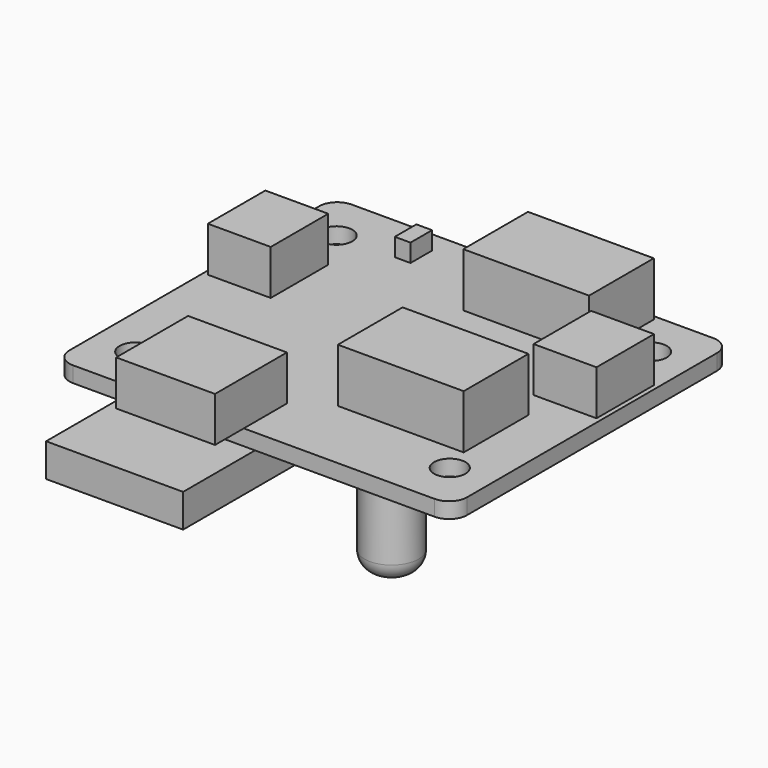
from build123d import *

# Parameters (mm, degrees)
F0_W      = 44.25
F0_H      = 38.75
F0_R      = 1.75
F1_DEPTH  = 1.75
F2_R      = 2
F3_W      = 14
F3_H      = 9
F4_DEPTH  = 6
F3_W_2    = 7
F3_H_2    = 8
F5_DEPTH  = 5
F3_W_3    = 1.75
F3_H_3    = 3
F6_DEPTH  = 2
F3_W_4    = 11
F3_H_4    = 6
F3_H_5    = 4
F7_DEPTH  = 5
F8_R      = 3
F9_DEPTH  = 9.4
F8_R_2    = 2.25
F10_DEPTH = 12
F8_W      = 15.25
F8_H      = 21
F8_H_2    = 10
F11_DEPTH = 3.7
F12_R     = 2
F13_R     = 2


with BuildPart() as f1:
    # F0 (on Top) → F1 (new body)
    with BuildSketch(Plane.XY):
        Rectangle(F0_W, F0_H)
        with Locations((-17.5, -14)):
            Circle(F0_R, mode=Mode.SUBTRACT)
        with Locations((17.5, -14)):
            Circle(F0_R, mode=Mode.SUBTRACT)
        with Locations((-17.5, 14)):
            Circle(F0_R, mode=Mode.SUBTRACT)
        with Locations((17.5, 14)):
            Circle(F0_R, mode=Mode.SUBTRACT)
    extrude(amount=F1_DEPTH)

    # F2
    f2_edges = [f1.edges().sort_by_distance(p)[0] for p in [
        (22.125, -19.375, 0.875),
        (-22.125, -19.375, 0.875),
        (-22.125, 19.375, 0.875),
        (22.125, 19.375, 0.875),
    ]]
    fillet(f2_edges, radius=F2_R)

    # F3 (on face) → F4 (join)
    with BuildSketch(Plane.XY.offset(1.75)):
        with Locations((6.9, 14.375)):
            Rectangle(F3_W, F3_H)
        with Locations((9.625, -6.47)):
            Rectangle(F3_W, F3_H)
    extrude(amount=F4_DEPTH)

    # F3 (on face) → F5 (join)
    with BuildSketch(Plane.XY.offset(1.75)):
        with Locations((-18.125, 5.25)):
            Rectangle(F3_W_2, F3_H_2)
        with Locations((18.125, 5.25)):
            Rectangle(F3_W_2, F3_H_2)
    extrude(amount=F5_DEPTH)

    # F3 (on face) → F6 (join)
    with BuildSketch(Plane.XY.offset(1.75)):
        with Locations((-10.125, 15.475)):
            Rectangle(F3_W_3, F3_H_3)
    extrude(amount=F6_DEPTH)

    # F3 (on face) → F7 (join)
    with BuildSketch(Plane.XY.offset(1.75)):
        with Locations((-6.625, -16.375)):
            Rectangle(F3_W_4, F3_H_4)
        with Locations((-6.625, -21.375)):
            Rectangle(F3_W_4, F3_H_5)
    extrude(amount=F7_DEPTH)

    # F8 (on face) → F9 (join)
    with BuildSketch(Plane(origin=(0, 0, 0), x_dir=(1, 0, 0), z_dir=(0, 0, -1))):
        with Locations((-1.553635, -5.567789)):
            Circle(F8_R)
        with Locations((12.125, 15.375)):
            Circle(F8_R)
    extrude(amount=F9_DEPTH)

    # F8 (on face) → F10 (join)
    with BuildSketch(Plane(origin=(0, 0, 0), x_dir=(1, 0, 0), z_dir=(0, 0, -1))):
        with Locations((-8.803919, -12.125)):
            Circle(F8_R_2)
    extrude(amount=F10_DEPTH)

    # F8 (on face) → F11 (join)
    with BuildSketch(Plane(origin=(0, 0, 0), x_dir=(1, 0, 0), z_dir=(0, 0, -1))):
        with Locations((-7.5, 8.875)):
            Rectangle(F8_W, F8_H)
        with Locations((-7.5, 24.375)):
            Rectangle(F8_W, F8_H_2)
    extrude(amount=F11_DEPTH)

    # F12
    f12_edges = [f1.edges().sort_by_distance(p)[0] for p in [
        (9.125, -15.375, -9.4),
        (-4.553635, 5.567789, -9.4),
    ]]
    fillet(f12_edges, radius=F12_R)

    # F13
    f13_edges = [f1.edges().sort_by_distance(p)[0] for p in [
        (-11.053919, 12.125, -12),
    ]]
    fillet(f13_edges, radius=F13_R)


solid = f1.part
